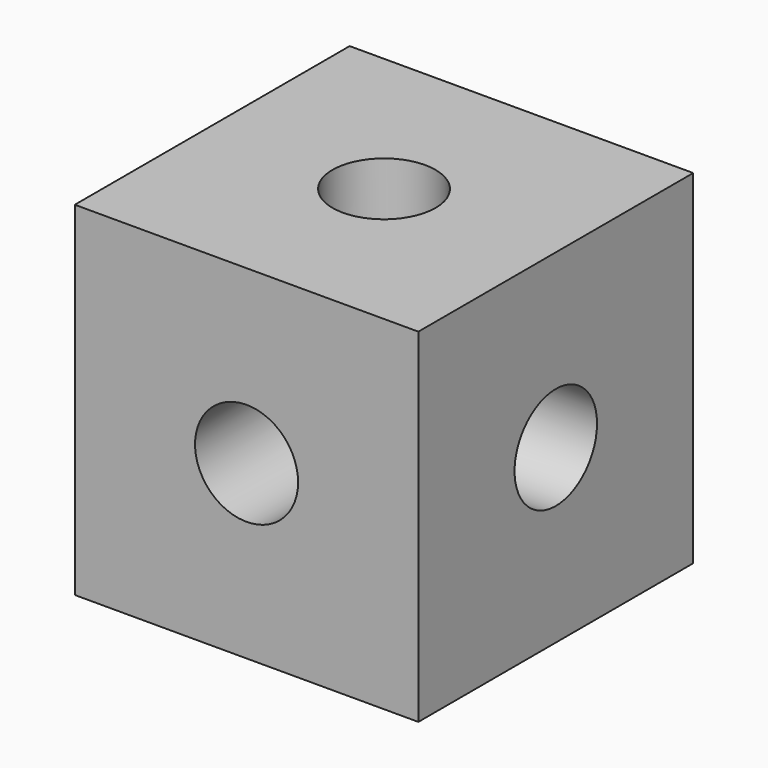
from build123d import *

# Parameters (mm, degrees)
F0_W      = 50
F0_H      = 50
F1_DEPTH  = 50
F2_R      = 7.5
F8_DEPTH  = 25
F3_R      = 7.5
F9_DEPTH  = 25
F4_R      = 7.5
F10_DEPTH = 25
F5_R      = 7.5
F11_DEPTH = 25
F6_R      = 7.5
F12_DEPTH = 25
F7_R      = 7.5
F13_DEPTH = 25


with BuildPart() as f1:
    # F0 (on Top) → F1 (new body)
    with BuildSketch(Plane.XY):
        Rectangle(F0_W, F0_H)
    extrude(amount=F1_DEPTH)

    # F2 (on face) → F8 (cut)
    with BuildSketch(Plane.XY.offset(50)):
        Circle(F2_R)
    extrude(amount=-F8_DEPTH, mode=Mode.SUBTRACT)

    # F3 (on face) → F9 (cut)
    with BuildSketch(Plane(origin=(0, 25, 0), x_dir=(-1, 0, 0), z_dir=(0, 1, 0))):
        with Locations((0, 25)):
            Circle(F3_R)
    extrude(amount=-F9_DEPTH, mode=Mode.SUBTRACT)

    # F4 (on face) → F10 (cut)
    with BuildSketch(Plane.XZ.offset(25)):
        with Locations((0, 25)):
            Circle(F4_R)
    extrude(amount=-F10_DEPTH, mode=Mode.SUBTRACT)

    # F5 (on face) → F11 (cut)
    with BuildSketch(Plane(origin=(-25, 0, 0), x_dir=(0, -1, 0), z_dir=(-1, 0, 0))):
        with Locations((0, 25)):
            Circle(F5_R)
    extrude(amount=-F11_DEPTH, mode=Mode.SUBTRACT)

    # F6 (on face) → F12 (cut)
    with BuildSketch(Plane.YZ.offset(25)):
        with Locations((0, 25)):
            Circle(F6_R)
    extrude(amount=-F12_DEPTH, mode=Mode.SUBTRACT)

    # F7 (on face) → F13 (cut)
    with BuildSketch(Plane.XY):
        Circle(F7_R)
    extrude(amount=F13_DEPTH, mode=Mode.SUBTRACT)


solid = f1.part
